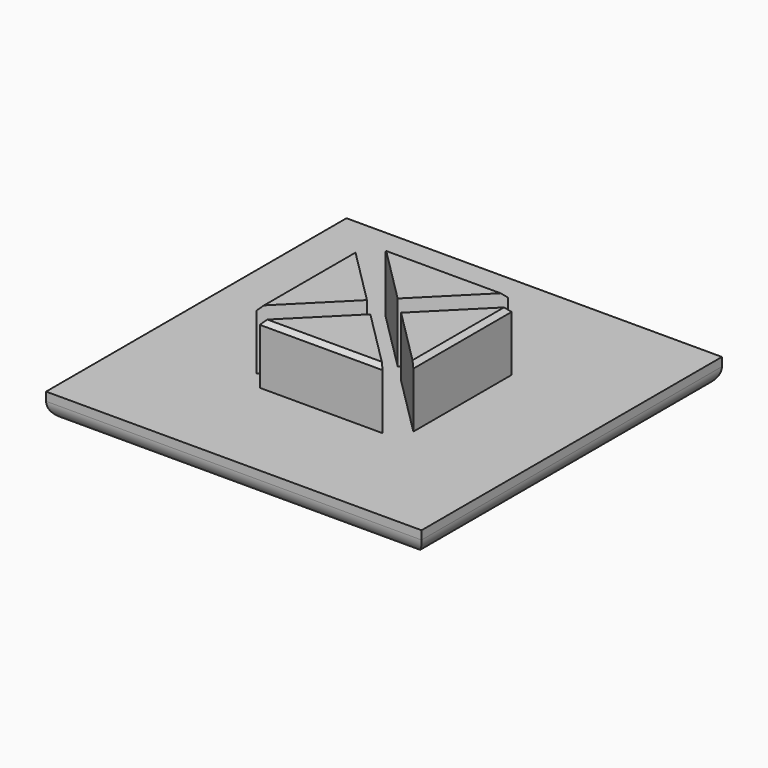
from build123d import *

# Parameters (mm, degrees)
SKETCH_W     = 44
SKETCH_H     = 44
PAD_DEPTH    = 3
SKETCH001_W  = 18.4
SKETCH001_H  = 18.4
PAD001_DEPTH = 7
POCKET_DEPTH = 7
FILLET_R     = 2
CHAMFER_SIZE = 0.5


with BuildPart() as part:
    # Sketch → Pad (new body)
    with BuildSketch(Plane.XY):
        Rectangle(SKETCH_W, SKETCH_H)
    extrude(amount=PAD_DEPTH)

    # Sketch001 (on Face6 of Pad) → Pad001 (join)
    with BuildSketch(Plane.XY.offset(3)):
        Rectangle(SKETCH001_W, SKETCH001_H)
    extrude(amount=PAD001_DEPTH)

    # Sketch002 (on Face11 of Pad001) → Pocket (cut)
    with BuildSketch(Plane.XY.offset(10)):
        Polygon((-9.2, 7.2), (-2, 0), (-9.2, -7.2), (-9.2, -9.2), (-7.2, -9.2), (0, -2), (7.2, -9.2), (9.2, -9.2), (9.2, -7.2), (2, 0), (9.2, 7.2), (9.2, 9.2), (7.2, 9.2), (0, 2), (-7.2, 9.2), (-9.2, 9.2), align=None)
    extrude(amount=-POCKET_DEPTH, mode=Mode.SUBTRACT)

    # Fillet
    fillet_edges = [part.edges().sort_by_distance(p)[0] for p in [
        (0, -22, 0),
        (-22, 0, 0),
        (0, 22, 0),
        (22, 0, 0),
    ]]
    fillet(fillet_edges, radius=FILLET_R)

    # Chamfer
    chamfer_edges = [part.edges().sort_by_distance(p)[0] for p in [
        (0, 9.2, 10),
        (-9.2, 0, 10),
        (0, -9.2, 10),
        (9.2, 0, 10),
    ]]
    chamfer(chamfer_edges, length=CHAMFER_SIZE)


solid = part.part
